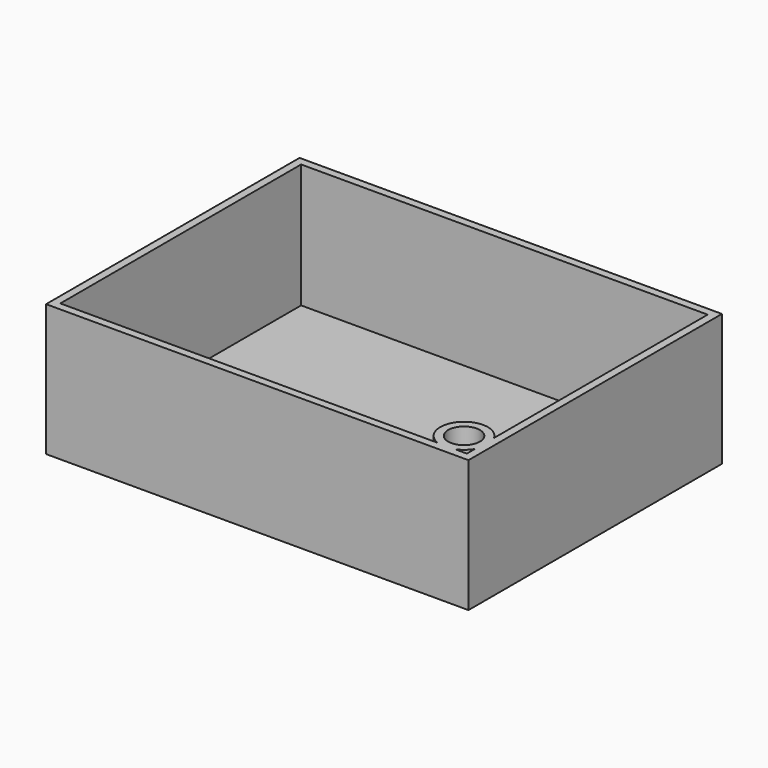
from build123d import *

# Parameters (mm, degrees)
F0_W     = 80
F0_H     = 60
F0_R     = 3
F1_DEPTH = 25
F2_T     = -1.5


with BuildPart() as f1:
    # F0 (on Top) → F1 (new body)
    with BuildSketch(Plane.XY):
        with Locations((15.248706, 10.717015)):
            Rectangle(F0_W, F0_H)
        with Locations((49.856115, -13.597123)):
            Circle(F0_R, mode=Mode.SUBTRACT)
    extrude(amount=F1_DEPTH)

    # F2
    f2_openings = [f1.faces().sort_by_distance(p)[0] for p in [
        (15.043643, 10.861085, 25),
    ]]
    offset(amount=F2_T, openings=f2_openings)


solid = f1.part
